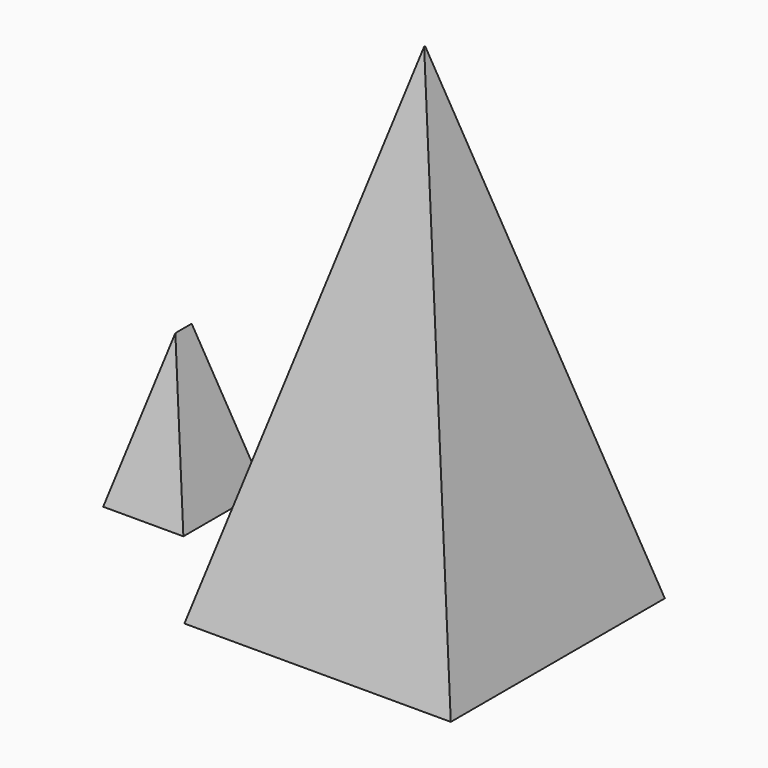
from build123d import *

# Parameters (mm, degrees)
F0_W     = 76.0508179665
F0_H     = 76.3919577003
F1_DEPTH = 304.8
F1_TAPER = 15
F0_W_2   = 22.8962097317
F0_H_2   = 28.7243276834


with BuildPart() as f1:
    # F0 (on Top) → F1 (new body)
    with BuildSketch(Plane.XY):
        with Locations((38.0254089832, -38.1959788501)):
            Rectangle(F0_W, F0_H)
    extrude(amount=F1_DEPTH, taper=F1_TAPER)


with BuildPart() as f1b:
    # F0 (on Top) → F1, piece 2 (new body)
    with BuildSketch(Plane.XY):
        with Locations((-37.9180414602, -29.3153300881)):
            Rectangle(F0_W_2, F0_H_2)
    extrude(amount=F1_DEPTH, taper=F1_TAPER)


solid = Compound([f1.part, f1b.part])
